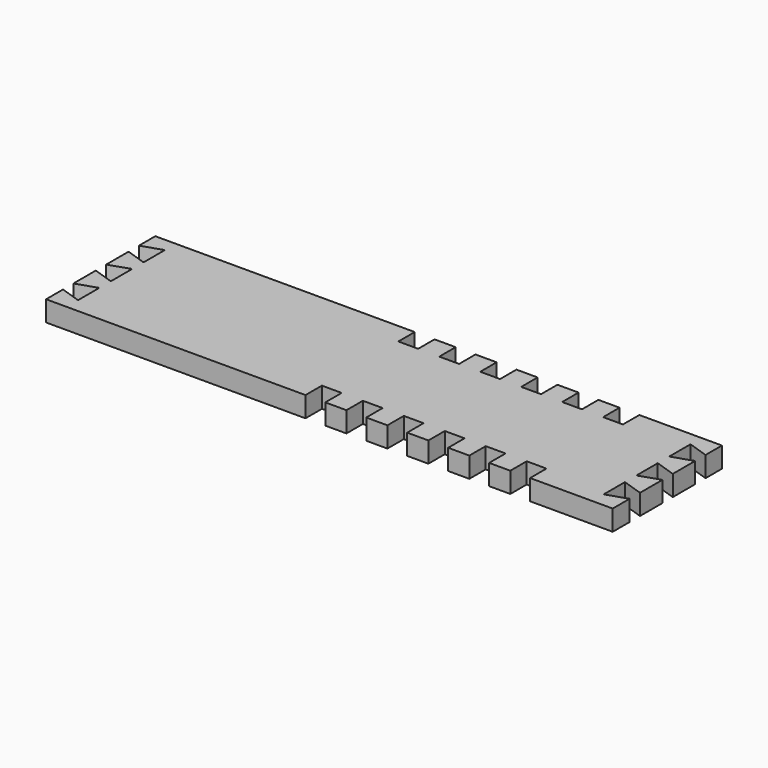
from build123d import *

# Parameters (mm, degrees)
SKETCH_W               = 83
SKETCH_H               = 20
PAD_DEPTH              = 3
SKETCH002_W            = 2.9
SKETCH002_H            = 3
POCKET_DEPTH           = 5
LINEARPATTERN_COUNT    = 6
LINEARPATTERN_PITCH    = 6
POCKET001_DEPTH        = 5
LINEARPATTERN001_COUNT = 3
LINEARPATTERN001_PITCH = 6


with BuildPart() as part:
    # Sketch → Pad (new body)
    with BuildSketch(Plane.XY):
        Rectangle(SKETCH_W, SKETCH_H)
    extrude(amount=PAD_DEPTH)

    # Sketch002 → Pocket (cut)
    with BuildSketch(Plane.XY.offset(3)):
        with Locations((-2.05, 8.5)):
            Rectangle(SKETCH002_W, SKETCH002_H)
        with Locations((-2.05, -8.5)):
            Rectangle(SKETCH002_W, SKETCH002_H)
    pocket = extrude(amount=-POCKET_DEPTH, mode=Mode.SUBTRACT)

    # LinearPattern: Pocket ×6
    with Locations(*[(i * LINEARPATTERN_PITCH, 0, 0) for i in range(1, LINEARPATTERN_COUNT)]):
        add(pocket, mode=Mode.SUBTRACT)

    # Sketch003 → Pocket001 (cut)
    with BuildSketch(Plane.XY.offset(3)):
        Polygon((-41.5, 7), (-38.5, 8), (-38.5, 4.1), (-41.5, 5.1), align=None)
        Polygon((38.5, 8), (41.5, 7), (41.5, 5.1), (38.5, 4.1), align=None)
    pocket001 = extrude(amount=-POCKET001_DEPTH, mode=Mode.SUBTRACT)

    # LinearPattern001: Pocket001 ×3
    with Locations(*[(0, -i * LINEARPATTERN001_PITCH, 0) for i in range(1, LINEARPATTERN001_COUNT)]):
        add(pocket001, mode=Mode.SUBTRACT)


solid = part.part
